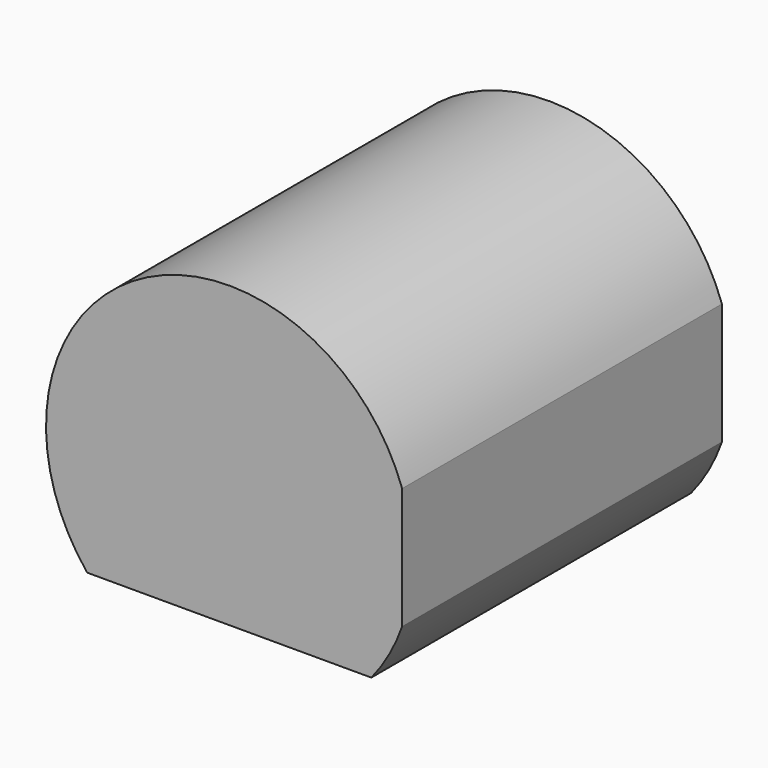
from build123d import *

# Parameters (mm, degrees)
F0_R     = 37.476533
F1_DEPTH = 196.006492
F2_W     = 109.178945
F2_H     = 81.75566
F3_DEPTH = 113.557346


with BuildPart() as f1:
    # F0 (on Front) → F1 (new body)
    with BuildSketch(Plane.XZ):
        with Locations((36.363707, 23.673844)):
            Circle(F0_R)
    extrude(amount=F1_DEPTH)


with BuildPart() as f3:
    # F2 (on Top) → F3 (new body)
    with BuildSketch(Plane.XY):
        with Locations((17.131656, -108.327765)):
            Rectangle(F2_W, F2_H)
        with Locations((17.131656, -108.327765)):
            Rectangle(F2_W, F2_H)
    extrude(amount=F3_DEPTH)

    # F4: intersect F1
    add(f1.part, mode=Mode.INTERSECT)


solid = f3.part
